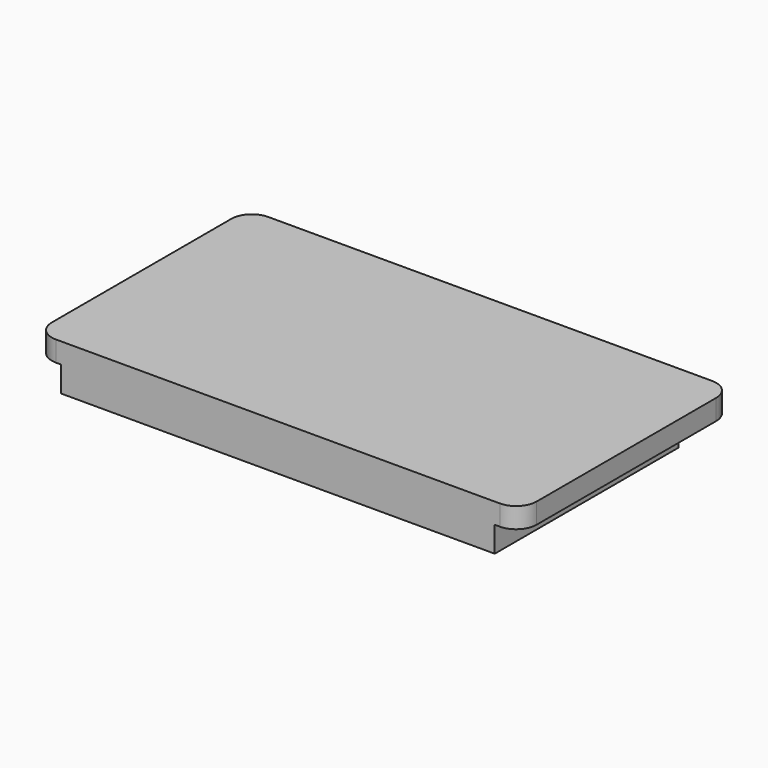
from build123d import *

# Parameters (mm, degrees)
F0_W     = 42.5
F0_H     = 23.5
F1_DEPTH = 2.5
F2_W     = 42.5
F2_H     = 23.5
F3_DEPTH = 2
F4_SIZE  = 1
F5_R     = 2


with BuildPart() as f1:
    # F0 (on Top) → F1 (new body)
    with BuildSketch(Plane.XY):
        Rectangle(F0_W, F0_H)
    extrude(amount=F1_DEPTH)

    # F2 (on face) + F0 (on Top) → F3 (join)
    with BuildSketch(Plane.XY.offset(2.5)):
        Polygon((-23.75, 14.25), (-23.75, -11.75), (-21.25, -11.75), (-21.25, 11.75), (21.25, 11.75), (21.25, -11.75), (23.75, -11.75), (23.75, 14.25), align=None)
        Rectangle(F2_W, F2_H)
    with BuildSketch(Plane.XY):
        Rectangle(F0_W, F0_H)
    extrude(amount=F3_DEPTH)

    # F4
    f4_edges = [f1.edges().sort_by_distance(p)[0] for p in [
        (21.25, 11.75, 1.25),
        (-21.25, 11.75, 1.25),
    ]]
    chamfer(f4_edges, length=F4_SIZE)

    # F5
    f5_edges = [f1.edges().sort_by_distance(p)[0] for p in [
        (23.75, 14.25, 3.5),
        (23.75, -11.75, 3.5),
        (-23.75, 14.25, 3.5),
        (-23.75, -11.75, 3.5),
    ]]
    fillet(f5_edges, radius=F5_R)


solid = f1.part
